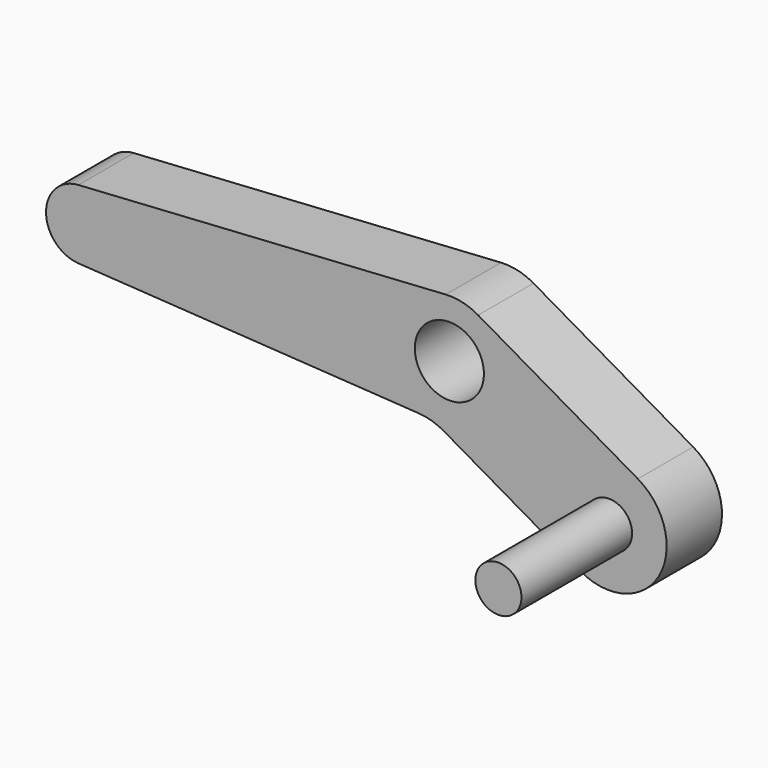
from build123d import *

# Parameters (mm, degrees)
F0_R     = 1.5
F1_DEPTH = 3
F2_R     = 1
F3_DEPTH = 6


with BuildPart() as f1:
    # F0 (on Front) → F1 (new body)
    with BuildSketch(Plane.XZ):
        with BuildLine():
            Line((8.178203, -1.834936), (1.25, 2.165064))
            ThreePointArc((1.25, 2.165064), (0.571231, 2.433864), (-0.15625, 2.495112))
            Line((-0.15625, 2.495112), (-16.09375, 1.497067))
            ThreePointArc((-16.09375, 1.497067), (-17.5, 0), (-16.09375, -1.497067))
            Line((-16.09375, -1.497067), (-1.327463, -2.421768))
            ThreePointArc((-1.327463, -2.421768), (-0.761482, -2.523477), (-0.233713, -2.751817))
            Line((-0.233713, -2.751817), (5.678203, -6.165064))
            ThreePointArc((5.678203, -6.165064), (9.093267, -5.25), (8.178203, -1.834936))
        make_face()
        Circle(F0_R, mode=Mode.SUBTRACT)
    extrude(amount=F1_DEPTH)

    # F2 (on face) → F3 (join)
    with BuildSketch(Plane.XZ.offset(3)):
        with Locations((6.928203, -4)):
            Circle(F2_R)
    extrude(amount=F3_DEPTH)


solid = f1.part
